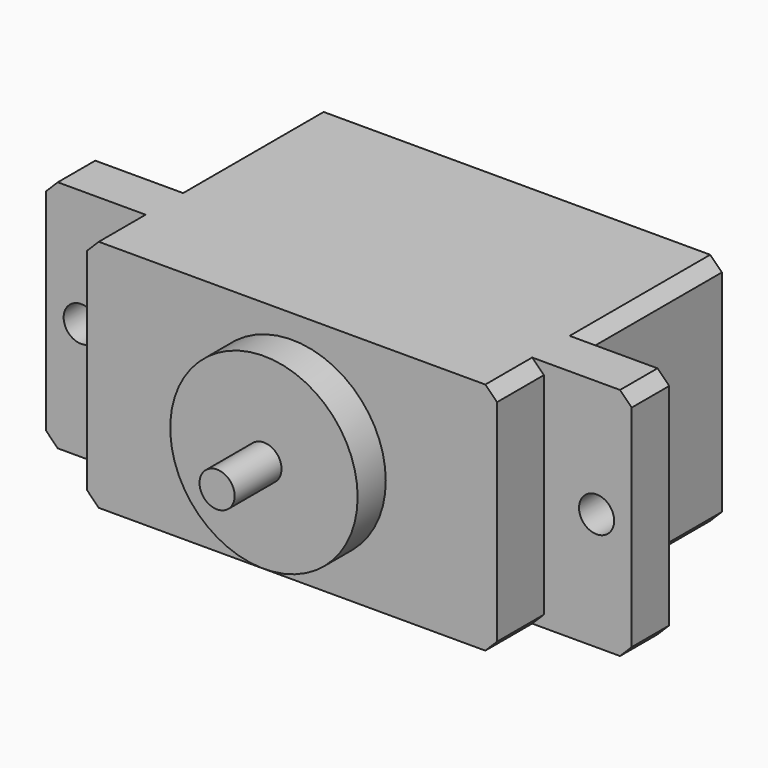
from build123d import *

# Parameters (mm, degrees)
F1_DEPTH = 40
F2_SIZE  = 2
F3_R     = 16
F4_DEPTH = 6
F5_R     = 3
F6_DEPTH = 10
F7_R     = 3
F8_DEPTH = 25


with BuildPart() as f1:
    # F0 (on Top) → F1 (new body)
    with BuildSketch(Plane.XY):
        Polygon((-50, 0), (-50, -8), (-35, -8), (-35, -18), (0, -18), (35, -18), (35, -8), (50, -8), (50, 0), (35, 0), (35, 30), (0, 30), (-35, 30), (-35, 0), align=None)
    extrude(amount=F1_DEPTH)

    # F2
    f2_edges = [f1.edges().sort_by_distance(p)[0] for p in [
        (35, 15, 40),
        (35, -13, 40),
        (50, -4, 40),
        (35, -13, 0),
        (50, -4, 0),
        (35, 15, 0),
        (-35, 15, 40),
        (-35, -13, 40),
        (-50, -4, 40),
        (-35, 15, 0),
        (-50, -4, 0),
        (-35, -13, 0),
    ]]
    chamfer(f2_edges, length=F2_SIZE)

    # F3 (on face) → F4 (join)
    with BuildSketch(Plane.XZ.offset(18)):
        with Locations((0, 20)):
            Circle(F3_R)
    extrude(amount=F4_DEPTH)

    # F5 (on face) → F6 (join)
    with BuildSketch(Plane.XZ.offset(24)):
        with Locations((0, 20)):
            Circle(F5_R)
    extrude(amount=F6_DEPTH)

    # F7 (on face) → F8 (cut)
    with BuildSketch(Plane.XZ.offset(8)):
        with Locations((-44, 20)):
            Circle(F7_R)
        with Locations((44, 20)):
            Circle(F7_R)
    extrude(amount=-F8_DEPTH, mode=Mode.SUBTRACT)


solid = f1.part
